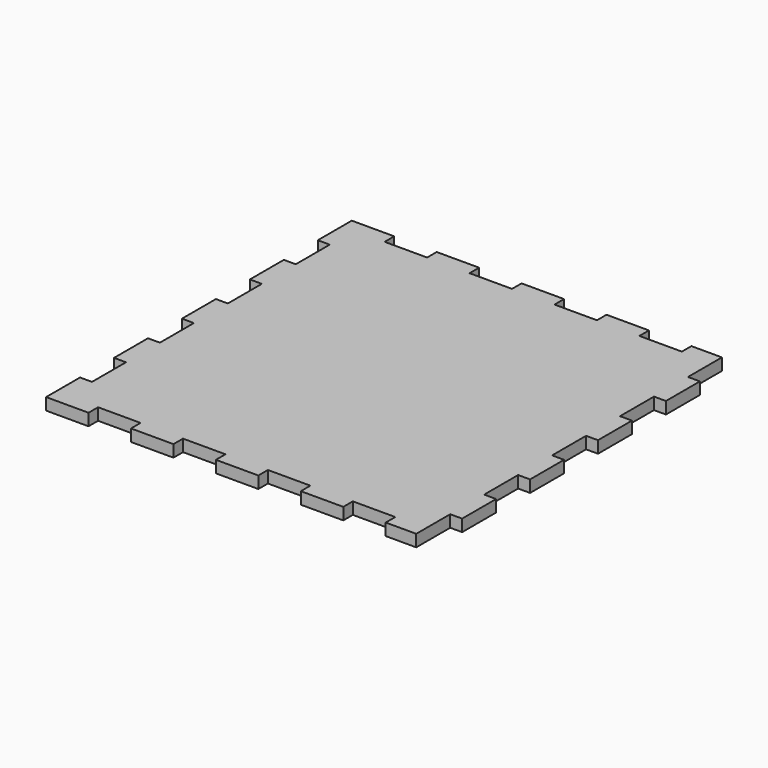
from build123d import *

# Parameters (mm, degrees)
F1_DEPTH = 6.35


with BuildPart() as f1:
    # F0 (on Top) → F1 (new body)
    with BuildSketch(Plane.XY):
        Polygon((-79.022222, 95.25), (-79.022222, 101.6), (-101.6, 101.6), (-101.6, 79.022222), (-95.25, 79.022222), (-95.25, 56.444444), (-101.6, 56.444444), (-101.6, 33.866667), (-95.25, 33.866667), (-95.25, 11.288889), (-101.6, 11.288889), (-101.6, 0), (-101.6, -11.288889), (-95.25, -11.288889), (-95.25, -33.866667), (-101.6, -33.866667), (-101.6, -56.444444), (-95.25, -56.444444), (-95.25, -79.022222), (-101.6, -79.022222), (-101.6, -101.6), (-79.022222, -101.6), (-79.022222, -95.25), (-56.444444, -95.25), (-56.444444, -101.6), (-33.866667, -101.6), (-33.866667, -95.25), (-11.288889, -95.25), (-11.288889, -101.6), (11.288889, -101.6), (11.288889, -95.25), (33.866667, -95.25), (33.866667, -101.6), (56.444444, -101.6), (56.444444, -95.25), (79.022222, -95.25), (79.022222, -101.6), (95.25, -101.6), (95.25, -79.022222), (101.6, -79.022222), (101.6, -56.444444), (95.25, -56.444444), (95.25, -33.866667), (101.6, -33.866667), (101.6, -11.288889), (95.25, -11.288889), (95.25, 0), (95.25, 11.288889), (101.6, 11.288889), (101.6, 33.866667), (95.25, 33.866667), (95.25, 56.444444), (101.6, 56.444444), (101.6, 79.022222), (95.25, 79.022222), (95.25, 101.6), (79.022222, 101.6), (79.022222, 95.25), (56.444444, 95.25), (56.444444, 101.6), (33.866667, 101.6), (33.866667, 95.25), (11.288889, 95.25), (11.288889, 101.6), (-11.288889, 101.6), (-11.288889, 95.25), (-33.866667, 95.25), (-33.866667, 101.6), (-56.444444, 101.6), (-56.444444, 95.25), align=None)
    extrude(amount=F1_DEPTH)


solid = f1.part
